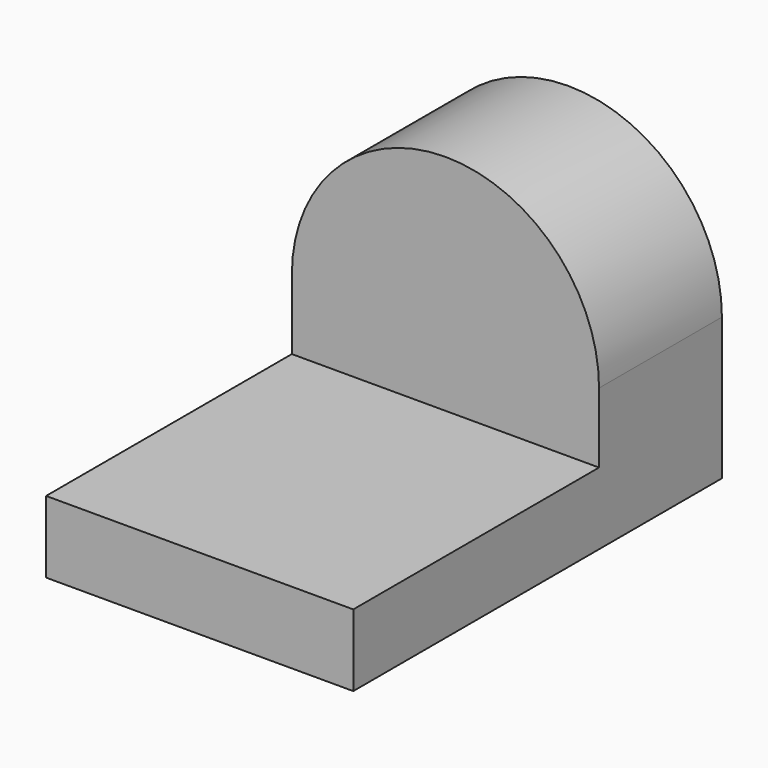
from build123d import *

# Parameters (mm, degrees)
F0_W     = 25.4
F0_H     = 5.9481007091
F1_DEPTH = 12.7
F2_DEPTH = 25.4


with BuildPart() as f1:
    # F0 (on Front) → F1 (new body)
    with BuildSketch(Plane.XZ):
        with Locations((-12.7, 2.9740503545)):
            Rectangle(F0_W, F0_H)
        with BuildLine():
            Line((-25.4, 11.7354422192), (-25.4, 5.9481007091))
            Line((-25.4, 5.9481007091), (0, 5.9481007091))
            Line((0, 5.9481007091), (0, 11.7354422192))
            ThreePointArc((0, 11.7354422192), (-12.7, 24.4354422192), (-25.4, 11.7354422192))
        make_face()
    extrude(amount=-F1_DEPTH)

    # F0 (on Front) → F2 (join)
    with BuildSketch(Plane.XZ):
        with Locations((-12.7, 2.9740503545)):
            Rectangle(F0_W, F0_H)
    extrude(amount=F2_DEPTH)


solid = f1.part
